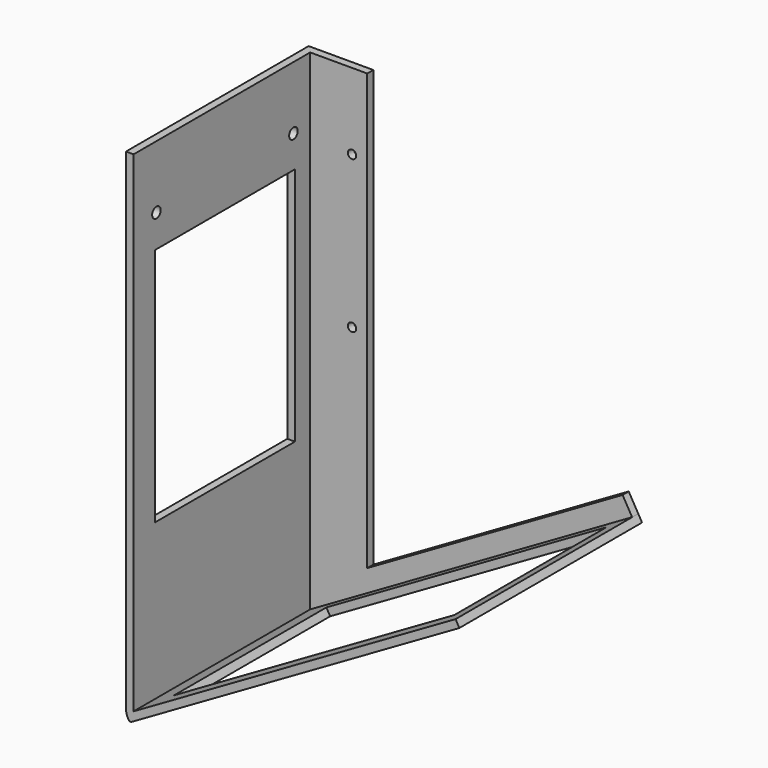
from build123d import *

# Parameters (mm, degrees)
PAD_DEPTH       = 60
SKETCH001_R     = 1.4
SKETCH001_W     = 63
SKETCH001_H     = 46
POCKET_DEPTH    = 2
SKETCH002_W     = 85
SKETCH002_H     = 50
POCKET001_DEPTH = 2.1
SKETCH003_R     = 1.1
PAD001_DEPTH    = 2


with BuildPart() as part:
    # Sketch → Pad (new body)
    with BuildSketch(Plane.XZ):
        with BuildLine():
            Line((2, 130), (0, 130))
            Line((0, 130), (0, 1.092096))
            ThreePointArc((0, 1.092096), (0.138878, 0.037212), (0.546048, -0.945783))
            Line((0.546048, -0.945783), (0.709176, -1.228329))
            ThreePointArc((0.709176, -1.228329), (1.06244, -1.499398), (1.50391, -1.441277))
            Line((87.60254, 48.267949), (1.50391, -1.441277))
            Line((86.60254, 50), (87.60254, 48.267949))
            Line((2, 1.154701), (86.60254, 50))
            Line((2, 1.154701), (2, 130))
        make_face()
    extrude(amount=PAD_DEPTH)

    # Sketch001 (on Face3 of Pad) → Pocket (cut)
    with BuildSketch(Plane(origin=(2, 0, 0), x_dir=(0, 0, 1), z_dir=(1, 0, 0))):
        with Locations((113.5, 52.5)):
            Circle(SKETCH001_R)
        with Locations((113.5, 7.5)):
            Circle(SKETCH001_R)
        with Locations((73.5, 30)):
            Rectangle(SKETCH001_W, SKETCH001_H)
    extrude(amount=-POCKET_DEPTH, mode=Mode.SUBTRACT)

    # Sketch002 (on Face2 of Pocket) → Pocket001 (cut)
    with BuildSketch(Plane(origin=(0, 0, 0), x_dir=(-0.866025, 0, -0.5), z_dir=(-0.5, 0, 0.866025))):
        with Locations((-52.5, 30)):
            Rectangle(SKETCH002_W, SKETCH002_H)
    extrude(amount=-POCKET001_DEPTH, mode=Mode.SUBTRACT)

    # Sketch003 (on Face4 of Pocket001) → Pad001 (join)
    with BuildSketch(Plane(origin=(0, 0, 0), x_dir=(1, 0, 0), z_dir=(0, 1, 0))):
        Polygon((2, -1.154701), (86.60254, -50), (84.10254, -54.330127), (17, -15.588457), (17, -130), (2, -130), align=None)
        with Locations((13, -110)):
            Circle(SKETCH003_R, mode=Mode.SUBTRACT)
        with Locations((13, -70)):
            Circle(SKETCH003_R, mode=Mode.SUBTRACT)
    extrude(amount=-PAD001_DEPTH)


solid = part.part
